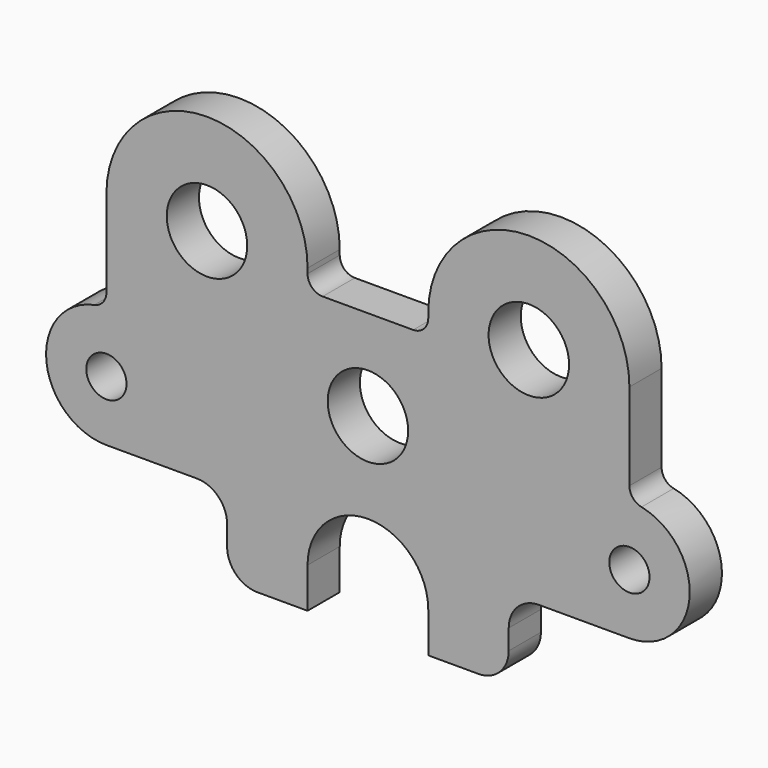
from build123d import *

# Parameters (mm, degrees)
F0_R     = 7.9375
F0_R_2   = 12.7
F0_R_3   = 6.35
F1_DEPTH = 6.35


with BuildPart() as f1:
    # F0 (on Front) → F1 (new body, symmetric)
    with BuildSketch(Plane.XZ):
        with BuildLine():
            Line((14.2875, 28.575), (0, 28.575))
            Line((0, 28.575), (-14.2875, 28.575))
            ThreePointArc((-14.2875, 28.575), (-17.655096, 29.969904), (-19.05, 33.3375))
            Line((-19.05, 33.3375), (-19.05, 34.925))
            ThreePointArc((-19.05, 34.925), (-50.8, 66.675), (-82.55, 34.925))
            Line((-82.55, 34.925), (-82.55, 7.45639))
            ThreePointArc((-82.55, 7.45639), (-83.623483, 4.44432), (-86.36, 2.790112))
            ThreePointArc((-86.36, 2.790112), (-101.503534, -17.789696), (-82.55, -34.925))
            Line((-82.55, -34.925), (-53.975, -34.925))
            ThreePointArc((-53.975, -34.925), (-47.239808, -37.714808), (-44.45, -44.45))
            Line((-44.45, -44.45), (-44.45, -50.8))
            ThreePointArc((-44.45, -50.8), (-41.660192, -57.535192), (-34.925, -60.325))
            Line((-34.925, -60.325), (-19.05, -60.325))
            Line((-19.05, -60.325), (-19.05, -47.625))
            ThreePointArc((-19.05, -47.625), (0, -28.575), (19.05, -47.625))
            Line((19.05, -47.625), (19.05, -60.325))
            Line((19.05, -60.325), (34.925, -60.325))
            ThreePointArc((34.925, -60.325), (41.660192, -57.535192), (44.45, -50.8))
            Line((44.45, -50.8), (44.45, -44.45))
            ThreePointArc((44.45, -44.45), (47.239808, -37.714808), (53.975, -34.925))
            Line((53.975, -34.925), (82.55, -34.925))
            ThreePointArc((82.55, -34.925), (101.503534, -17.789696), (86.36, 2.790112))
            ThreePointArc((86.36, 2.790112), (83.623483, 4.44432), (82.55, 7.45639))
            Line((82.55, 7.45639), (82.55, 34.925))
            ThreePointArc((82.55, 34.925), (50.8, 66.675), (19.05, 34.925))
            Line((19.05, 34.925), (19.05, 33.3375))
            ThreePointArc((19.05, 33.3375), (17.655096, 29.969904), (14.2875, 28.575))
        make_face()
        with Locations((-82.55, -15.875)):
            Circle(F0_R, mode=Mode.SUBTRACT)
        Circle(F0_R_2, mode=Mode.SUBTRACT)
        with Locations((82.55, -15.875)):
            Circle(F0_R, mode=Mode.SUBTRACT)
        with Locations((-50.8, 34.925)):
            Circle(F0_R_2, mode=Mode.SUBTRACT)
        with Locations((50.8, 34.925)):
            Circle(F0_R_2, mode=Mode.SUBTRACT)
        with Locations((82.55, -15.875)):
            Circle(F0_R)
        with Locations((82.55, -15.875)):
            Circle(F0_R_3, mode=Mode.SUBTRACT)
        with Locations((-82.55, -15.875)):
            Circle(F0_R)
        with Locations((-82.55, -15.875)):
            Circle(F0_R_3, mode=Mode.SUBTRACT)
    extrude(amount=F1_DEPTH, both=True)


solid = f1.part
